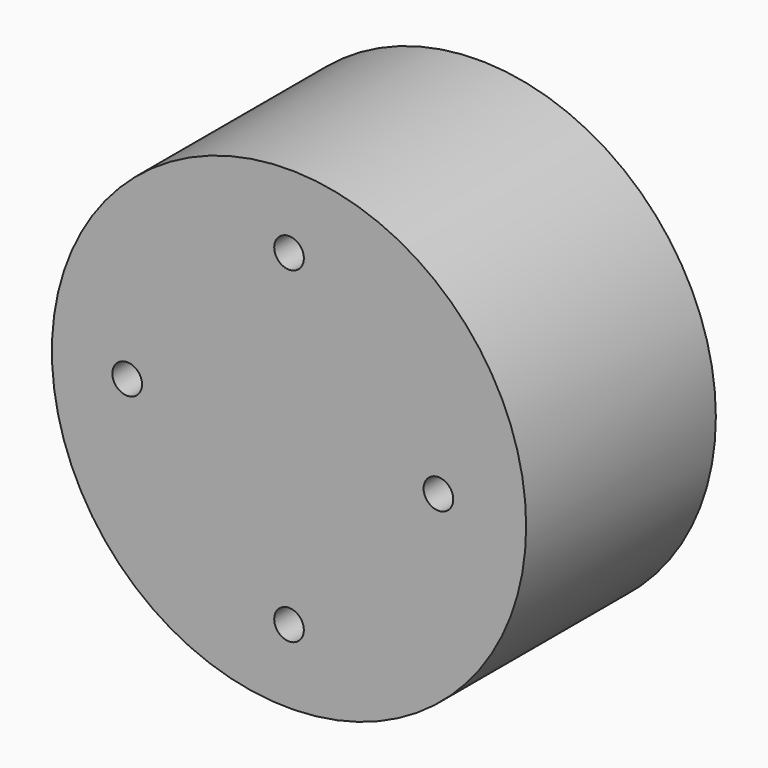
from build123d import *

# Parameters (mm, degrees)
F0_R     = 25.4
F0_R_2   = 22.225
F2_DEPTH = 25.4
F3_D     = 3.175


with BuildPart() as f2:
    # F0 (on Front) → F2 (new body)
    with BuildSketch(Plane.XZ):
        Circle(F0_R)
        Circle(F0_R_2, mode=Mode.SUBTRACT)
        Circle(F0_R_2)
    extrude(amount=F2_DEPTH)

    # F3 (through all)
    with Locations(Plane(origin=(0, 0, 0), x_dir=(1, 0, 0), z_dir=(0, 1, 0))):
        with Locations((0, 17.526003), (16.001999, 0), (0, -17.525999), (-17.335502, 0)):
            Hole(F3_D / 2)


solid = f2.part
